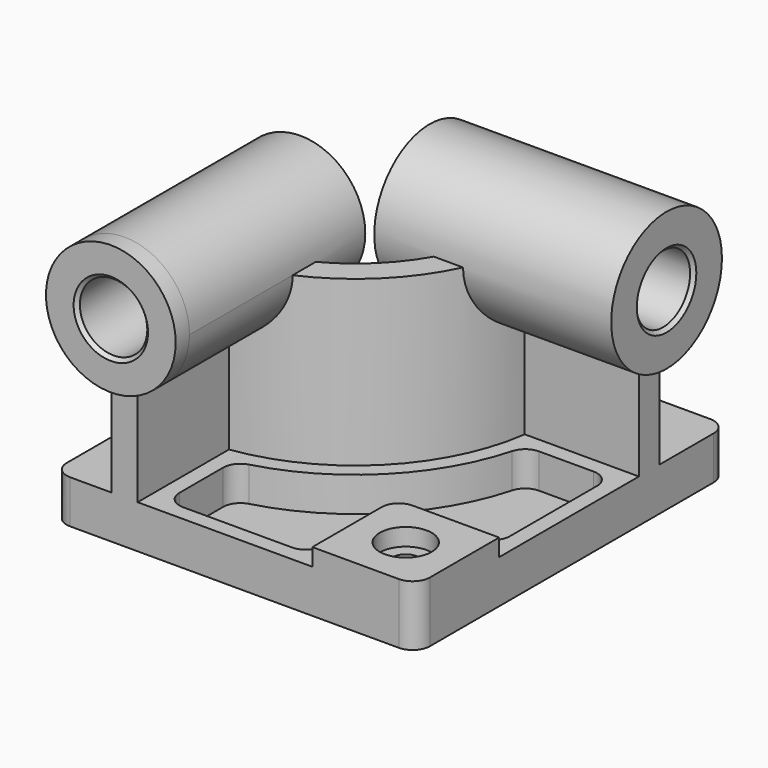
from build123d import *

# Parameters (mm, degrees)
F0_W            = 5334
F0_H            = 5715
F1_DEPTH        = 635
F3_DEPTH        = 2413
F4_R            = 952.5
F5_DEPTH        = 254
F5_DEPTH_BACK   = 3225.8
F6_R            = 1016
F7_DEPTH        = 254
F7_DEPTH_BACK   = 3225.8
F8_W            = 1524
F8_H            = 1524
F9_DEPTH        = 254
F10_R           = 254
F12_DEPTH       = 508
F14_D           = 381
F14_CBORE_D     = 762
F14_CBORE_DEPTH = 254
F15_R           = 254
F16_R           = 495.3
F17_DEPTH       = 5969.001
F18_R           = 495.3
F19_DEPTH       = 5588.001
F20_SIZE        = 50.8
F21_R           = 254


with BuildPart() as f1:
    # F0 (on Top) → F1 (new body)
    with BuildSketch(Plane.XY):
        Rectangle(F0_W, F0_H)
    extrude(amount=F1_DEPTH)

    # F2 (on face) → F3 (join)
    with BuildSketch(Plane.XY.offset(635)):
        with BuildLine():
            Line((-1803.4, -825.5), (-1803.4, -2857.5))
            Line((-1803.4, -2857.5), (-1422.4, -2857.5))
            Line((-1422.4, -2857.5), (-1422.4, -1180.638144))
            ThreePointArc((-1422.4, -1180.638144), (190.216859, -380.716859), (990.138144, 1231.9))
            Line((990.138144, 1231.9), (2667, 1231.9))
            Line((2667, 1231.9), (2667, 1612.9))
            Line((2667, 1612.9), (635, 1612.9))
            ThreePointArc((635, 1612.9), (-79.190825, -111.309175), (-1803.4, -825.5))
        make_face()
    extrude(amount=F3_DEPTH)

    # F4 (on face) → F5 (join, two sides)
    with BuildSketch(Plane.XZ.offset(2857.5)) as f5_sk:
        with Locations((-1612.9, 3048)):
            Circle(F4_R)
    extrude(amount=F5_DEPTH)
    extrude(f5_sk.sketch, amount=-F5_DEPTH_BACK)

    # F6 (on face) → F7 (join, two sides)
    with BuildSketch(Plane.YZ.offset(2667)) as f7_sk:
        with Locations((1422.4, 3048)):
            Circle(F6_R)
    extrude(amount=F7_DEPTH)
    extrude(f7_sk.sketch, amount=-F7_DEPTH_BACK)

    # F8 (on face) → F9 (join)
    with BuildSketch(Plane.XY.offset(635)):
        with Locations((1905, -2095.5)):
            Rectangle(F8_W, F8_H)
    extrude(amount=F9_DEPTH)

    # F10
    f10_edges = [f1.edges().sort_by_distance(p)[0] for p in [
        (1143, -1333.5, 762),
    ]]
    fillet(f10_edges, radius=F10_R)

    # F11 (on face) → F12 (cut)
    with BuildSketch(Plane.XY.offset(635)):
        with BuildLine():
            ThreePointArc((1183.017894, 1003.3), (351.861469, -542.361469), (-1193.8, -1373.517894))
            Line((-1193.8, -1373.517894), (-1193.8, -2628.9))
            Line((-1193.8, -2628.9), (914.4, -2628.9))
            Line((914.4, -2628.9), (914.4, -1587.5))
            ThreePointArc((914.4, -1587.5), (1055.750267, -1246.250267), (1397, -1104.9))
            Line((1397, -1104.9), (2438.4, -1104.9))
            Line((2438.4, -1104.9), (2438.4, 1003.3))
            Line((2438.4, 1003.3), (1183.017894, 1003.3))
        make_face()
    extrude(amount=-F12_DEPTH, mode=Mode.SUBTRACT)

    # F14 (through all)
    with Locations(Plane.XY.offset(889)):
        with Locations((1905, -2095.5)):
            CounterBoreHole(F14_D / 2, F14_CBORE_D / 2, F14_CBORE_DEPTH)

    # F15
    f15_edges = [f1.edges().sort_by_distance(p)[0] for p in [
        (-1193.8, -1373.517894, 381),
        (1183.017894, 1003.3, 381),
        (-1193.8, -2628.9, 381),
        (914.4, -2628.9, 381),
        (2438.4, -1104.9, 381),
        (2438.4, 1003.3, 381),
    ]]
    fillet(f15_edges, radius=F15_R)

    # F16 (on face) → F17 (cut, through all)
    with BuildSketch(Plane.XZ.offset(3111.5)):
        with Locations((-1612.9, 3048)):
            Circle(F16_R)
    extrude(amount=-F17_DEPTH, mode=Mode.SUBTRACT)

    # F18 (on face) → F19 (cut, through all)
    with BuildSketch(Plane.YZ.offset(2921)):
        with Locations((1422.4, 3048)):
            Circle(F18_R)
    extrude(amount=-F19_DEPTH, mode=Mode.SUBTRACT)

    # F20
    f20_edges = [f1.edges().sort_by_distance(p)[0] for p in [
        (-2108.2, -3111.5, 3048),
        (2921, 927.1, 3048),
        (-558.8, 927.1, 3048),
        (-2108.2, 368.3, 3048),
    ]]
    chamfer(f20_edges, length=F20_SIZE)

    # F21
    f21_edges = [f1.edges().sort_by_distance(p)[0] for p in [
        (2667, 2857.5, 317.5),
        (2667, -2857.5, 444.5),
        (-2667, -2857.5, 317.5),
        (-2667, 2857.5, 317.5),
    ]]
    fillet(f21_edges, radius=F21_R)


solid = f1.part
